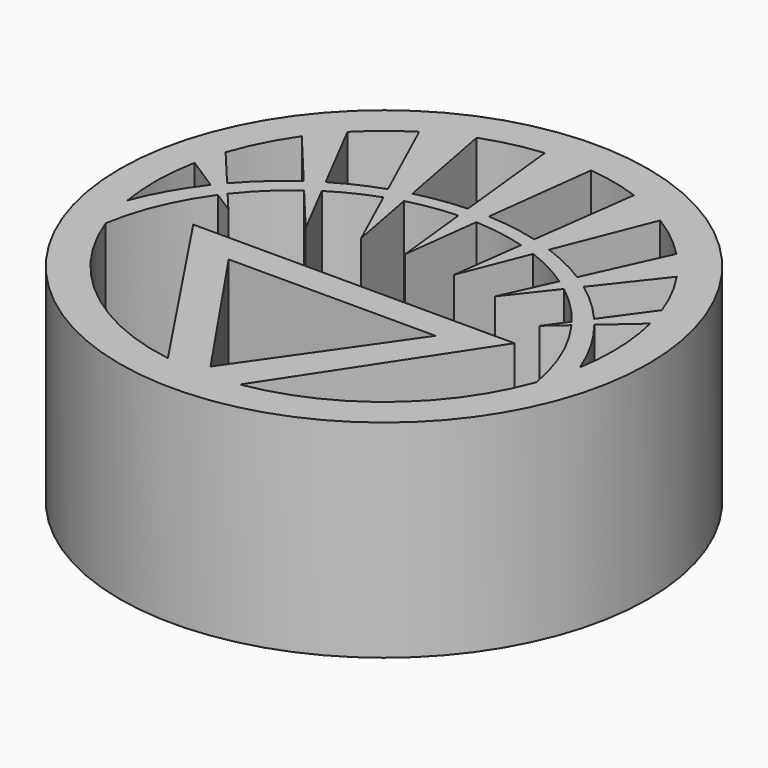
from build123d import *

# Parameters (mm, degrees)
F0_R     = 32.397128
F1_DEPTH = 25.4


with BuildPart() as f1:
    # F0 (on Top) → F1 (new body)
    with BuildSketch(Plane.XY):
        with Locations((37.62687, 37.525859)):
            Circle(F0_R)
        with BuildLine():
            ThreePointArc((64.038143, 27.863669), (55.546064, 15.850626), (42.150506, 9.768879))
            Line((42.150506, 9.768879), (57.342436, 32.889675))
            Line((57.342436, 32.889675), (17.938334, 32.889675))
            Line((17.938334, 32.889675), (33.3534, 9.729264))
            ThreePointArc((33.3534, 9.729264), (19.800834, 15.773947), (11.211487, 27.874912))
            ThreePointArc((11.211487, 27.874912), (12.920461, 33.797806), (15.938562, 39.172963))
            Line((15.938562, 39.172963), (18.579211, 37.471808))
            Line((18.579211, 37.471808), (16.513879, 39.937897))
            ThreePointArc((16.513879, 39.937897), (18.978485, 42.682726), (21.79693, 45.062799))
            Line((21.79693, 45.062799), (26.786907, 39.067749))
            Line((26.786907, 39.067749), (23.196478, 46.021628))
            ThreePointArc((23.196478, 46.021628), (25.839836, 47.508267), (28.634337, 48.686485))
            Line((28.634337, 48.686485), (32.258701, 40.739689))
            Line((32.258701, 40.739689), (30.639012, 49.313462))
            ThreePointArc((30.639012, 49.313462), (33.597866, 49.936093), (36.608049, 50.221194))
            Line((36.608049, 50.221194), (37.62687, 40.739689))
            Line((37.62687, 40.739689), (38.795932, 50.214806))
            ThreePointArc((38.795932, 50.214806), (41.991078, 49.881953), (45.123374, 49.168886))
            Line((45.123374, 49.168886), (43.950234, 40.363967))
            Line((43.950234, 40.363967), (47.166887, 48.482341))
            ThreePointArc((47.166887, 48.482341), (50.007564, 47.205017), (52.680711, 45.60649))
            Line((52.680711, 45.60649), (49.80769, 39.289203))
            Line((49.80769, 39.289203), (54.008956, 44.642557))
            ThreePointArc((54.008956, 44.642557), (56.579737, 42.376606), (58.840087, 39.800898))
            Line((58.840087, 39.800898), (56.954861, 37.193418))
            Line((56.954861, 37.193418), (59.273398, 39.222249))
            ThreePointArc((59.273398, 39.222249), (62.317727, 33.820639), (64.038143, 27.863669))
        make_face(mode=Mode.SUBTRACT)
        Polygon((50.473832, 29.364996), (37.623877, 10.928214), (25.100218, 29.364996), align=None, mode=Mode.SUBTRACT)
        with BuildLine():
            ThreePointArc((9.888466, 32.889675), (9.506726, 37.939073), (10.036667, 42.975074))
            Line((10.036667, 42.975074), (14.097949, 40.358721))
            ThreePointArc((14.097949, 40.358721), (11.722598, 36.776711), (9.888466, 32.889675))
        make_face(mode=Mode.SUBTRACT)
        with BuildLine():
            Line((15.116865, 41.605987), (10.986651, 46.537627))
            ThreePointArc((10.986651, 46.537627), (12.544169, 50.244796), (14.614464, 53.691946))
            Line((14.614464, 53.691946), (20.571624, 46.534904))
            ThreePointArc((20.571624, 46.534904), (17.691328, 44.239676), (15.116865, 41.605987))
        make_face(mode=Mode.SUBTRACT)
        with BuildLine():
            Line((22.339414, 47.681575), (17.461614, 57.12881))
            ThreePointArc((17.461614, 57.12881), (20.008646, 59.446429), (22.819841, 61.435378))
            Line((22.819841, 61.435378), (27.907935, 50.279199))
            ThreePointArc((27.907935, 50.279199), (25.056396, 49.124611), (22.339414, 47.681575))
        make_face(mode=Mode.SUBTRACT)
        with BuildLine():
            Line((30.320273, 51.000694), (27.882156, 63.906795))
            ThreePointArc((27.882156, 63.906795), (31.370616, 64.944329), (34.963852, 65.522672))
            Line((34.963852, 65.522672), (36.42892, 51.88823))
            ThreePointArc((36.42892, 51.88823), (33.351504, 51.603405), (30.320273, 51.000694))
        make_face(mode=Mode.SUBTRACT)
        with BuildLine():
            ThreePointArc((64.949322, 44.188954), (65.731013, 38.560434), (65.365273, 32.889675))
            ThreePointArc((65.365273, 32.889675), (63.436107, 36.944067), (60.918471, 40.661766))
            Line((60.918471, 40.661766), (64.949322, 44.188954))
        make_face(mode=Mode.SUBTRACT)
        with BuildLine():
            ThreePointArc((60.860282, 53.372682), (62.672999, 50.316661), (64.08591, 47.056463))
            Line((64.08591, 47.056463), (60.141393, 41.600751))
            ThreePointArc((60.141393, 41.600751), (57.800984, 44.021736), (55.201862, 46.162587))
            Line((55.201862, 46.162587), (60.860282, 53.372682))
        make_face(mode=Mode.SUBTRACT)
        with BuildLine():
            Line((39.00146, 51.880582), (40.679739, 65.482847))
            ThreePointArc((40.679739, 65.482847), (43.933359, 64.932818), (47.100156, 64.005475))
            Line((47.100156, 64.005475), (45.35284, 50.891126))
            ThreePointArc((45.35284, 50.891126), (42.203966, 51.557985), (39.00146, 51.880582))
        make_face(mode=Mode.SUBTRACT)
        with BuildLine():
            ThreePointArc((52.325572, 61.502126), (55.244605, 59.446822), (57.879741, 57.038276))
            Line((57.879741, 57.038276), (53.469349, 47.340571))
            ThreePointArc((53.469349, 47.340571), (50.71484, 48.877102), (47.813072, 50.113221))
            Line((47.813072, 50.113221), (52.325572, 61.502126))
        make_face(mode=Mode.SUBTRACT)
    extrude(amount=F1_DEPTH)


solid = f1.part
